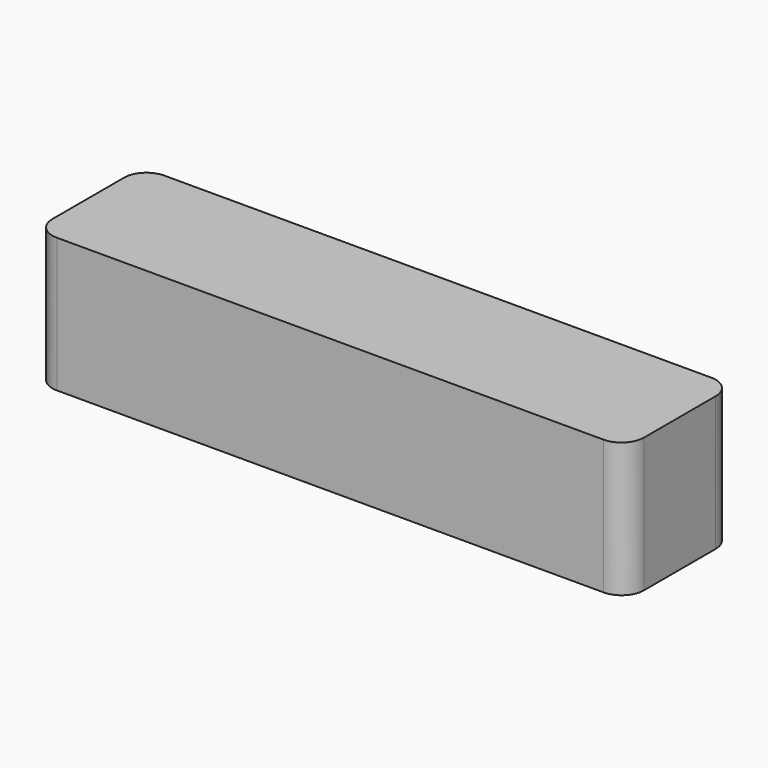
from build123d import *

# Parameters (mm, degrees)
PAD_DEPTH = 30


with BuildPart() as part:
    # Sketch → Pad (new body)
    with BuildSketch(Plane.XY):
        with BuildLine():
            Line((0, 0), (122, 0))
            ThreePointArc((122, 0), (125.535534, 1.464466), (127, 5))
            Line((127, 5), (127, 25))
            ThreePointArc((127, 25), (125.535534, 28.535534), (122, 30))
            Line((122, 30), (0, 30))
            ThreePointArc((0, 30), (-3.535534, 28.535534), (-5, 25))
            Line((-5, 25), (-5, 5))
            ThreePointArc((-5, 5), (-3.535534, 1.464466), (0, 0))
        make_face()
    extrude(amount=PAD_DEPTH)


solid = part.part
